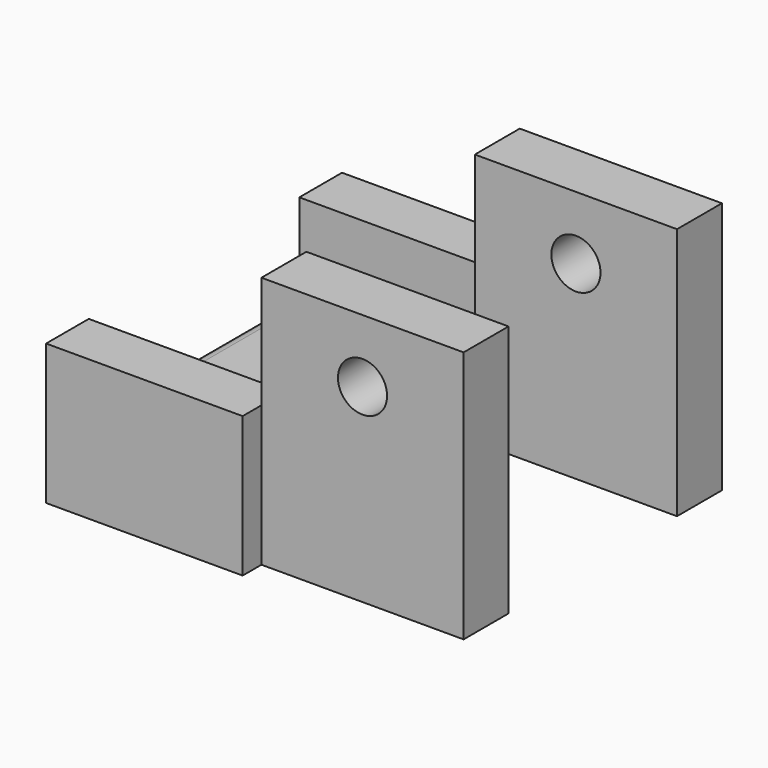
from build123d import *

# Parameters (mm, degrees)
F0_R     = 1.6
F1_DEPTH = 4
F2_DEPTH = 10
F3_DEPTH = 18
F4_R     = 1.75
F5_DEPTH = 23
F6_R     = 1


with BuildPart() as f1:
    # F0 (on Top) → F1 (new body)
    with BuildSketch(Plane.XY):
        Polygon((14, 0), (0, 0), (0, -18.75), (14, -18.75), (14, -16.875), (14, -1.875), align=None)
        with Locations((4.2, -14.55)):
            Circle(F0_R, mode=Mode.SUBTRACT)
    extrude(amount=F1_DEPTH)

    # F0 (on Top) → F2 (join)
    with BuildSketch(Plane.XY):
        Polygon((0, 3.8), (0, 0), (14, 0), (14, 2.125), (14, 3.8), align=None)
        Polygon((14, -18.75), (0, -18.75), (0, -22.55), (14, -22.55), (14, -20.875), align=None)
    extrude(amount=F2_DEPTH)

    # F0 (on Top) → F3 (join)
    with BuildSketch(Plane.XY):
        Polygon((14, 2.125), (14, 0), (14, -1.875), (28.4, -1.875), (28.4, 2.125), align=None)
        Polygon((14, -16.875), (14, -18.75), (14, -20.875), (28.4, -20.875), (28.4, -16.875), align=None)
    extrude(amount=F3_DEPTH)

    # F4 (on face) → F5 (cut, through all)
    with BuildSketch(Plane.XZ.offset(20.875)):
        with Locations((21.2, 13.5)):
            Circle(F4_R)
    extrude(amount=-F5_DEPTH, mode=Mode.SUBTRACT)

    # F6
    f6_edges = [f1.edges().sort_by_distance(p)[0] for p in [
        (0, -9.375, 4),
    ]]
    fillet(f6_edges, radius=F6_R)


solid = f1.part
